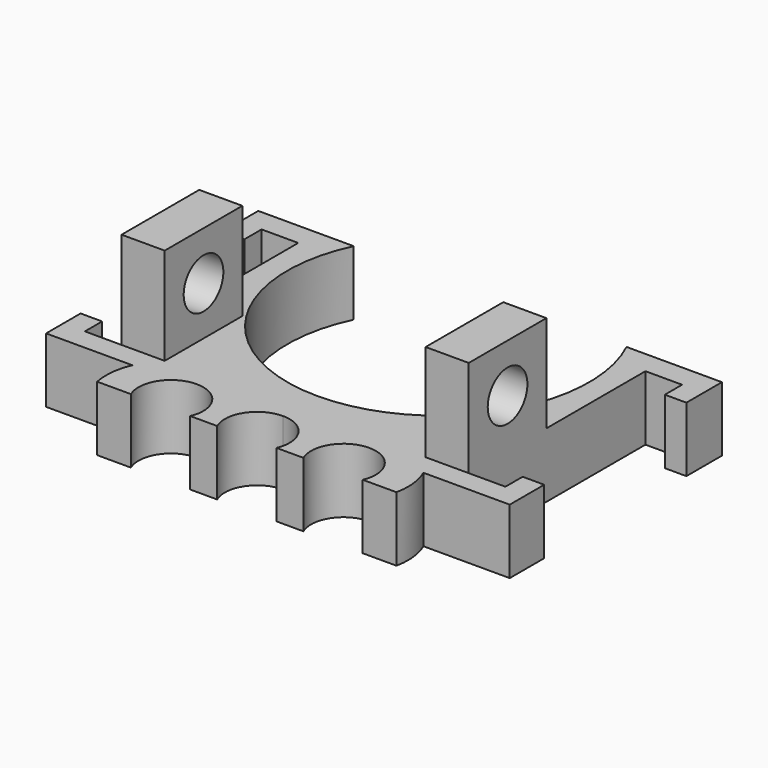
from build123d import *

# Parameters (mm, degrees)
PAD_DEPTH    = 3
SKETCH001_W  = 2
SKETCH001_H  = 4.5
PAD001_DEPTH = 4.5
SKETCH002_R  = 1.15
POCKET_DEPTH = 5


with BuildPart() as pocket:
    # Sketch → Pad (new body)
    with BuildSketch(Plane.XY):
        with BuildLine():
            ThreePointArc((-6.324555, 3), (-5.91608, -3.741657), (0, -7))
            Line((0, -7), (0, -9))
            ThreePointArc((0, -9), (-1.25499, -9.678416), (-1.374773, -11.1))
            Line((-2.625227, -11.1), (-1.374773, -11.1))
            ThreePointArc((-2.625227, -11.1), (-4, -9), (-5.374773, -11.1))
            Line((-6.939388, -11.1), (-5.374773, -11.1))
            ThreePointArc((-6.748835, -9.298374), (-6.98336, -10.184459), (-6.939388, -11.1))
            Line((-10.748835, -9.298374), (-6.748835, -9.298374))
            Line((-10.748835, -7.298374), (-10.748835, -9.298374))
            Line((-10.748835, -7.298374), (-9.748835, -7.298374))
            Line((-9.748835, -7.298374), (-9.748835, -8.298374))
            Line((-9.748835, -8.298374), (-8.048835, -8.298374))
            Line((-8.048835, 1.941626), (-8.048835, -8.298374))
            Line((-8.048835, 1.941626), (-9.748835, 1.941626))
            Line((-9.748835, 1.941626), (-9.748835, 0.941626))
            Line((-9.748835, 0.941626), (-10.748835, 0.941626))
            Line((-10.748835, 3), (-10.748835, 0.941626))
            Line((-10.748835, 3), (-6.324555, 3))
        make_face()
    extrude(amount=PAD_DEPTH)

    # Sketch001 → Pad001 (new body)
    with BuildSketch(Plane.XY.offset(3)):
        with Locations((-7.048835, -6.048374)):
            Rectangle(SKETCH001_W, SKETCH001_H)
    extrude(amount=PAD001_DEPTH)

    # Sketch002 → Pocket (cut)
    with BuildSketch(Plane(origin=(-8.048835, 0, 0), x_dir=(0, -1, 0), z_dir=(-1, 0, 0))):
        with Locations((6.048374, 5.25)):
            Circle(SKETCH002_R)
    extrude(amount=-POCKET_DEPTH, mode=Mode.SUBTRACT)


with BuildPart() as fusion:
    # Part__Mirroring: instance of Pocket
    add(pocket.part.mirror(Plane(origin=(0, 0, 0), x_dir=(0, -1, 0), z_dir=(1, 0, 0))))

    # Fusion: union Pocket
    add(pocket.part)


solid = fusion.part
